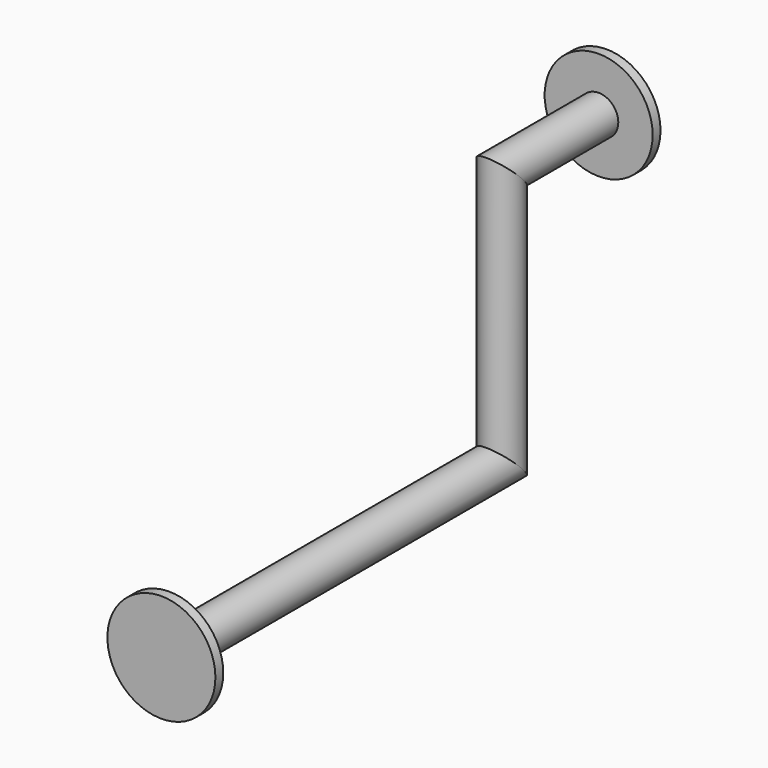
from build123d import *

# Parameters (mm, degrees)
F0_R     = 30
F0_R_2   = 82.5
F3_DEPTH = 15
F4_R     = 82.5
F4_R_2   = 30
F5_DEPTH = 15


with BuildPart() as f2:
    # F2: sweep along a path in F1
    with BuildLine(Plane.YZ) as f2_path:
        Line((0, 0), (-200, 0))
        Line((-200, 0), (-200, -390))
        Line((-200, -390), (-850, -390))
    # F0 (on Front) → F2 (sweep)
    with BuildSketch(Plane.XZ):
        Circle(F0_R)
    sweep(path=f2_path.line, transition=Transition.RIGHT)

    # F0 (on Front) → F3 (join)
    with BuildSketch(Plane.XZ):
        Circle(F0_R_2)
        Circle(F0_R, mode=Mode.SUBTRACT)
    extrude(amount=F3_DEPTH)

    # F4 (on face) → F5 (join)
    with BuildSketch(Plane.XZ.offset(850)):
        with Locations((0, -390)):
            Circle(F4_R)
        with Locations((0, -390)):
            Circle(F4_R_2, mode=Mode.SUBTRACT)
    extrude(amount=-F5_DEPTH)


solid = f2.part
